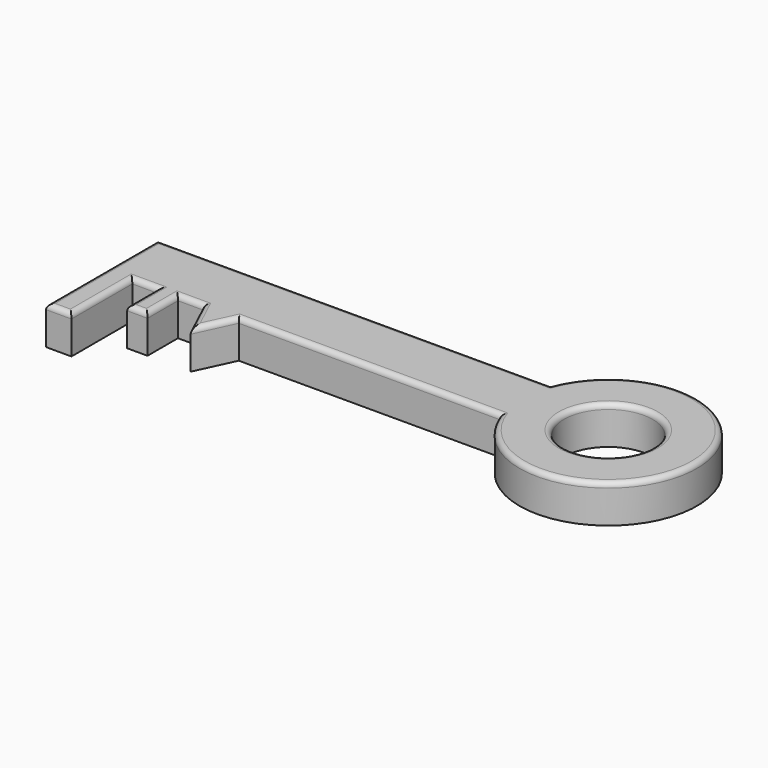
from build123d import *

# Parameters (mm, degrees)
F0_R     = 17.5
F1_DEPTH = 15
F2_R     = 2


with BuildPart() as f1:
    # F0 (on Top) → F1 (new body)
    with BuildSketch(Plane.XY):
        with BuildLine():
            Line((76.474377, 25), (-78.525623, 25))
            Line((-78.525623, 25), (-78.525623, 0))
            Line((-78.525623, 0), (-78.525623, -30))
            Line((-78.525623, -30), (-68.525623, -30))
            Line((-68.525623, -30), (-68.525623, 0))
            Line((-68.525623, 0), (-58.525623, 0))
            Line((-58.525623, 0), (-58.525623, -15))
            Line((-58.525623, -15), (-50.525623, -15))
            Line((-50.525623, -15), (-50.525623, 0))
            Line((-50.525623, 0), (-40.525623, 0))
            Line((-40.525623, 0), (-33.525623, -15))
            Line((-33.525623, -15), (-26.525623, 0))
            Line((-26.525623, 0), (76.474377, 0))
            ThreePointArc((76.474377, 0), (144.166119, 12.5), (76.474377, 25))
        make_face()
        with Locations((109.166119, 12.5)):
            Circle(F0_R, mode=Mode.SUBTRACT)
    extrude(amount=-F1_DEPTH)

    # F2
    f2_edges = [f1.edges().sort_by_distance(p)[0] for p in [
        (-1.025623, 25, 0),
        (-78.525623, -2.5, 0),
        (-73.525623, -30, 0),
        (-68.525623, -15, 0),
        (-63.525623, 0, 0),
        (-58.525623, -7.5, 0),
        (-54.525623, -15, 0),
        (-50.525623, -7.5, 0),
        (-45.525623, 0, 0),
        (-37.025623, -7.5, 0),
        (-30.025623, -7.5, 0),
        (24.974377, 0, 0),
        (144.166119, 12.5, 0),
        (91.666119, 12.5, 0),
    ]]
    fillet(f2_edges, radius=F2_R)


solid = f1.part
